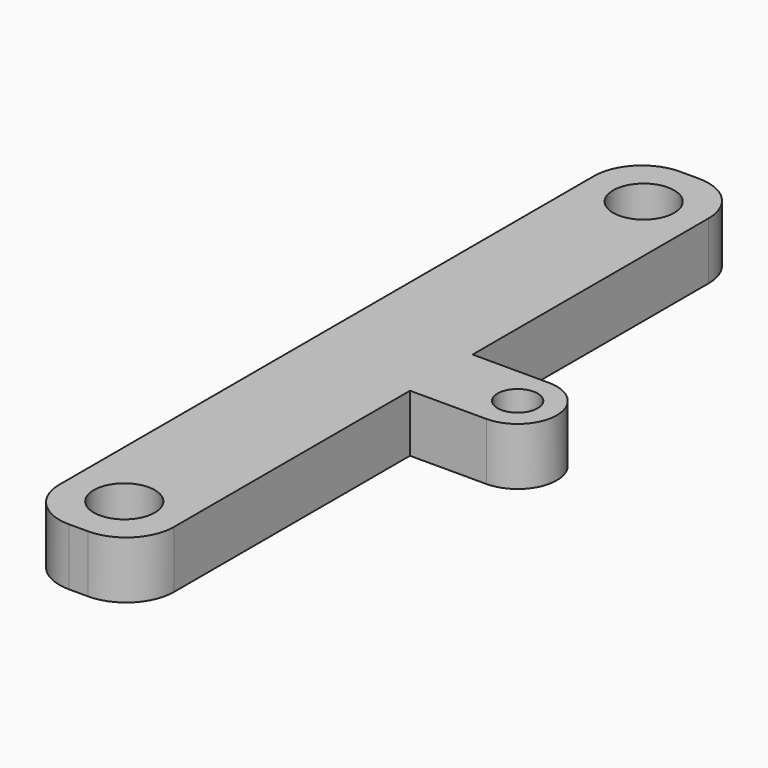
from build123d import *

# Parameters (mm, degrees)
SKETCH_R   = 1.6
SKETCH_R_2 = 1.05
PAD_DEPTH  = 3
FILLET_R   = 2.5


with BuildPart() as part:
    # Sketch → Pad (new body)
    with BuildSketch(Plane.XY):
        with BuildLine():
            Line((-35, 20), (-29, 20))
            Line((-29, 20), (-29, 2.05))
            Line((-29, 2.05), (-25, 2.05))
            ThreePointArc((-24.999986, -2.05), (-22.95, 7e-06), (-25, 2.05))
            Line((-24.999986, -2.05), (-29, -2.05))
            Line((-29, -2.05), (-29, -20))
            Line((-29, -20), (-35, -20))
            Line((-35, -20), (-35, 20))
        make_face()
        with Locations((-32, 17)):
            Circle(SKETCH_R, mode=Mode.SUBTRACT)
        with Locations((-32, -17)):
            Circle(SKETCH_R, mode=Mode.SUBTRACT)
        with Locations((-25, 0)):
            Circle(SKETCH_R_2, mode=Mode.SUBTRACT)
    extrude(amount=PAD_DEPTH)

    # Fillet
    fillet_edges = [part.edges().sort_by_distance(p)[0] for p in [
        (-29, -20, 1.5),
        (-35, -20, 1.5),
        (-29, 20, 1.5),
        (-35, 20, 1.5),
    ]]
    fillet(fillet_edges, radius=FILLET_R)


solid = part.part
